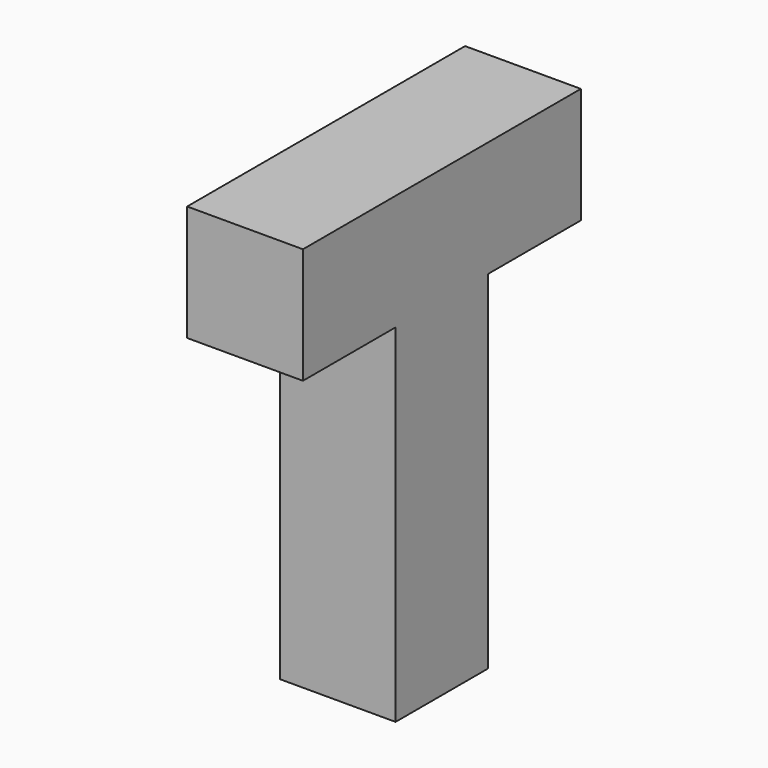
from build123d import *

# Parameters (mm, degrees)
BOX078_W     = 1
BOX078_H     = 3
BOX078_DEPTH = 1
BOX080_W     = 1
BOX080_H     = 1
BOX080_DEPTH = 3


with BuildPart() as box078:
    # Box078 → Box078 (new body)
    with BuildSketch(Plane(origin=(44, 4, 6), x_dir=(1, 0, 0), z_dir=(0, 0, 1))):
        with Locations((0.5, 1.5)):
            Rectangle(BOX078_W, BOX078_H)
    extrude(amount=BOX078_DEPTH)


with BuildPart() as fusion035:
    # Box080 → Box080 (new body)
    with BuildSketch(Plane(origin=(44, 5, 3), x_dir=(1, 0, 0), z_dir=(0, 0, 1))):
        with Locations((0.5, 0.5)):
            Rectangle(BOX080_W, BOX080_H)
    extrude(amount=BOX080_DEPTH)

    # Fusion035: union Box078
    add(box078.part)


solid = fusion035.part
